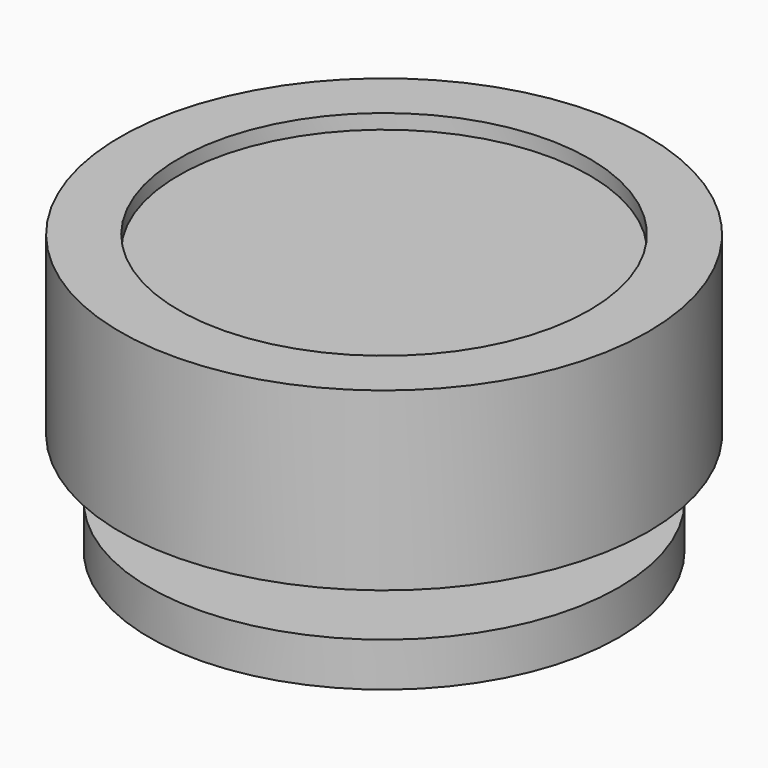
from build123d import *


with BuildPart() as f1:
    # F0 (on Front) → F1 (revolve)
    with BuildSketch(Plane.XZ):
        Polygon((0, 1.5), (0, 0), (8, 0), (8, 1.5), (2, 1.5), align=None)
        Polygon((0, 9), (0, 1.5), (2, 1.5), (2, 4.5), (7, 4.5), (7, 3.5), (9, 3.5), (9, 9.5), (7, 9.5), (7, 9), align=None)
    revolve(axis=Axis((0, 0, 4.5), (0, 0, -1)))


solid = f1.part
